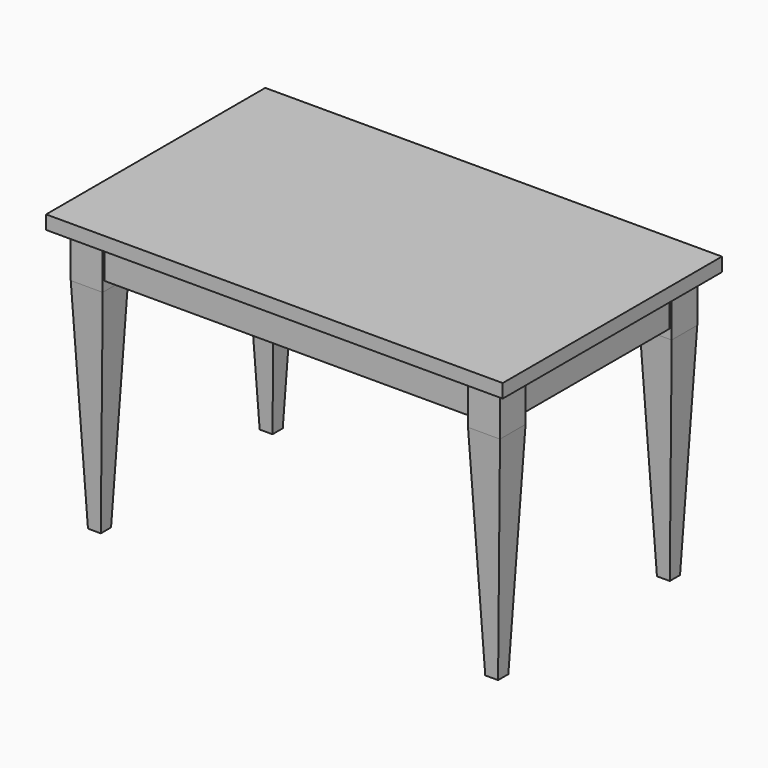
from build123d import *

# Parameters (mm, degrees)
F0_W      = 1270
F0_H      = 762
F0_W_2    = 1263.65
F0_H_2    = 755.65
F1_DEPTH  = 38.1
F3_W      = 88.9
F3_H      = 88.9
F4_DEPTH  = 127
F6_W      = 1181.1
F6_H      = 673.1
F7_DEPTH  = 101.6
F8_T      = -25.4
F9_W      = 1270
F9_H      = 762
F9_W_2    = 1193.8
F9_H_2    = 685.8
F10_DEPTH = 3.175
F11_W     = 1270
F11_H     = 762
F12_DEPTH = 38.1
F13_W     = 88.9
F13_H     = 88.9
F14_DEPTH = 609.6
F14_TAPER = 2.5


with BuildPart() as f1:
    # F0 (on Top) → F1 (new body)
    with BuildSketch(Plane.XY):
        Rectangle(F0_W, F0_H)
        Rectangle(F0_W_2, F0_H_2, mode=Mode.SUBTRACT)
    extrude(amount=F1_DEPTH)



with BuildPart() as f4:
    # F3 (on face) → F4 (new body)
    with BuildSketch(Plane(origin=(0, 0, 0), x_dir=(1, 0, 0), z_dir=(0, 0, -1))):
        with Locations((-552.45, 298.45)):
            Rectangle(F3_W, F3_H)
    extrude(amount=F4_DEPTH)


with BuildPart() as f4b:
    # F3 (on face) → F4, piece 2 (new body)
    with BuildSketch(Plane(origin=(0, 0, 0), x_dir=(1, 0, 0), z_dir=(0, 0, -1))):
        with Locations((-552.45, -298.45)):
            Rectangle(F3_W, F3_H)
    extrude(amount=F4_DEPTH)


with BuildPart() as f5_1:
    # F5: instance of F4
    add(f4.part.mirror(Plane.YZ))


with BuildPart() as f5_2:
    # F5: instance of F4b
    add(f4b.part.mirror(Plane.YZ))


with BuildPart() as f7:
    # F6 (on face) → F7 (new body)
    with BuildSketch(Plane(origin=(0, 0, 0), x_dir=(1, 0, 0), z_dir=(0, 0, -1))):
        Rectangle(F6_W, F6_H)
    extrude(amount=F7_DEPTH)

    # F8
    f8_openings = [f7.faces().sort_by_distance(p)[0] for p in [
        (0, 0, -101.6),
    ]]
    offset(amount=F8_T, openings=f8_openings)


with BuildPart() as f1_1:
    add(f1.part)

    add(f4.part)  # F10 merges F4

    add(f4b.part)  # F10 merges F4b

    add(f5_1.part)  # F10 merges F5_1

    add(f5_2.part)  # F10 merges F5_2
    # F9 (on Top) → F10 (join)
    with BuildSketch(Plane.XY):
        Rectangle(F9_W, F9_H)
        Rectangle(F9_W_2, F9_H_2, mode=Mode.SUBTRACT)
    extrude(amount=F10_DEPTH)


with BuildPart() as f12:
    # F11 (on Top) → F12 (new body)
    with BuildSketch(Plane.XY):
        Rectangle(F11_W, F11_H)
    extrude(amount=F12_DEPTH)


with BuildPart() as f14:
    # F13 (on face) → F14 (new body)
    with BuildSketch(Plane(origin=(0, 0, -127), x_dir=(1, 0, 0), z_dir=(0, 0, -1))):
        with Locations((-552.45, 298.45)):
            Rectangle(F13_W, F13_H)
    extrude(amount=F14_DEPTH, taper=F14_TAPER)


with BuildPart() as f14b:
    # F13 (on face) → F14, piece 2 (new body)
    with BuildSketch(Plane(origin=(0, 0, -127), x_dir=(1, 0, 0), z_dir=(0, 0, -1))):
        with Locations((552.45, 298.45)):
            Rectangle(F13_W, F13_H)
    extrude(amount=F14_DEPTH, taper=F14_TAPER)


with BuildPart() as f14c:
    # F13 (on face) → F14, piece 3 (new body)
    with BuildSketch(Plane(origin=(0, 0, -127), x_dir=(1, 0, 0), z_dir=(0, 0, -1))):
        with Locations((552.45, -298.45)):
            Rectangle(F13_W, F13_H)
    extrude(amount=F14_DEPTH, taper=F14_TAPER)


with BuildPart() as f14d:
    # F13 (on face) → F14, piece 4 (new body)
    with BuildSketch(Plane(origin=(0, 0, -127), x_dir=(1, 0, 0), z_dir=(0, 0, -1))):
        with Locations((-552.45, -298.45)):
            Rectangle(F13_W, F13_H)
    extrude(amount=F14_DEPTH, taper=F14_TAPER)


solid = Compound([f7.part, f1_1.part, f12.part, f14.part, f14b.part, f14c.part, f14d.part])
